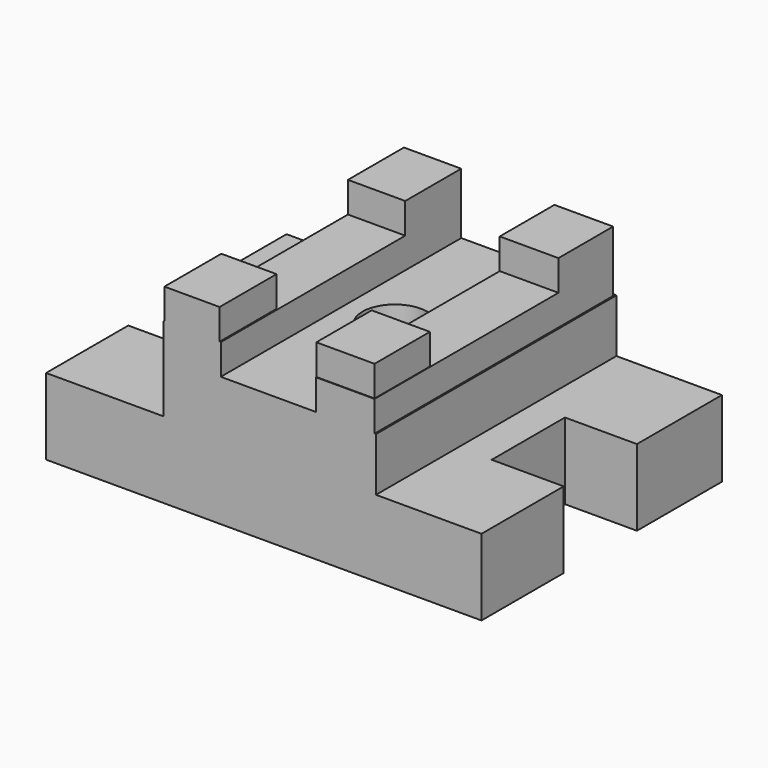
from build123d import *

# Parameters (mm, degrees)
F0_W      = 144.9018344283
F0_H      = 100.0124998391
F1_DEPTH  = 25.4
F2_W      = 23.9564813673
F2_H      = 30.4689249024
F3_DEPTH  = 25.4
F4_W      = 27.2127054632
F4_H      = 32.7947968617
F5_DEPTH  = 25.4
F6_W      = 70.706512779
F6_H      = 100.0124998391
F7_DEPTH  = 17.78
F9_W      = 19.5373268798
F9_H      = 99.2384850979
F8_W      = 19.0721508116
F8_H      = 100.0124998391
F10_DEPTH = 10.16
F12_W     = 19.5373268798
F12_H     = 22.7496176958
F11_W     = 19.0721508116
F11_H     = 23.2910439372
F15_DEPTH = 10.16
F13_W     = 18.3743890375
F13_H     = 23.6915722489
F14_W     = 19.367502071
F14_H     = 23.0261366814
F16_DEPTH = 10.16
F19_D     = 21.59


with BuildPart() as f1:
    # F0 (on Top) → F1 (new body)
    with BuildSketch(Plane.XY):
        with Locations((-2.325873822, -1.6281101853)):
            Rectangle(F0_W, F0_H)
    extrude(amount=F1_DEPTH)

    # F2 (on face) → F3 (cut)
    with BuildSketch(Plane.XY.offset(25.4)):
        with Locations((58.1468027085, -2.2095781751)):
            Rectangle(F2_W, F2_H)
    extrude(amount=-F3_DEPTH, mode=Mode.SUBTRACT)

    # F4 (on face) → F5 (cut)
    with BuildSketch(Plane.XY.offset(25.4)):
        with Locations((-61.1704383045, -1.0466421954)):
            Rectangle(F4_W, F4_H)
    extrude(amount=-F5_DEPTH, mode=Mode.SUBTRACT)

    # F6 (on face) → F7 (join)
    with BuildSketch(Plane.XY.offset(25.4)):
        with Locations((-0.3488790244, -1.6281101853)):
            Rectangle(F6_W, F6_H)
    extrude(amount=F7_DEPTH)

    # F9 (on face) + F8 (on face) → F10 (join)
    with BuildSketch(Plane.XY.offset(43.18)):
        with Locations((24.7705369256, -2.0151175559)):
            Rectangle(F9_W, F9_H)
    with BuildSketch(Plane.XY.offset(43.18)):
        with Locations((-26.1660600081, -1.6281101853)):
            Rectangle(F8_W, F8_H)
    extrude(amount=F10_DEPTH)

    # F12 (on face) + F11 (on face) → F15 (join)
    with BuildSketch(Plane.XY.offset(53.34)):
        with Locations((24.7705369256, 36.2293161452)):
            Rectangle(F12_W, F12_H)
    with BuildSketch(Plane.XY.offset(53.34)):
        with Locations((-26.1660600081, 36.7326177657)):
            Rectangle(F11_W, F11_H)
    extrude(amount=F15_DEPTH)

    # F13 (on face) + F14 (on face) → F16 (join)
    with BuildSketch(Plane.XY.offset(53.34)):
        with Locations((-26.2195924297, -39.7885739803)):
            Rectangle(F13_W, F13_H)
    with BuildSketch(Plane.XY.offset(53.34)):
        with Locations((24.6856245212, -39.9210313335)):
            Rectangle(F14_W, F14_H)
    extrude(amount=F16_DEPTH)

    # F19 (through all)
    with Locations(Plane.XY.offset(43.18)):
        with Locations((0, 0)):
            Hole(F19_D / 2)


solid = f1.part
